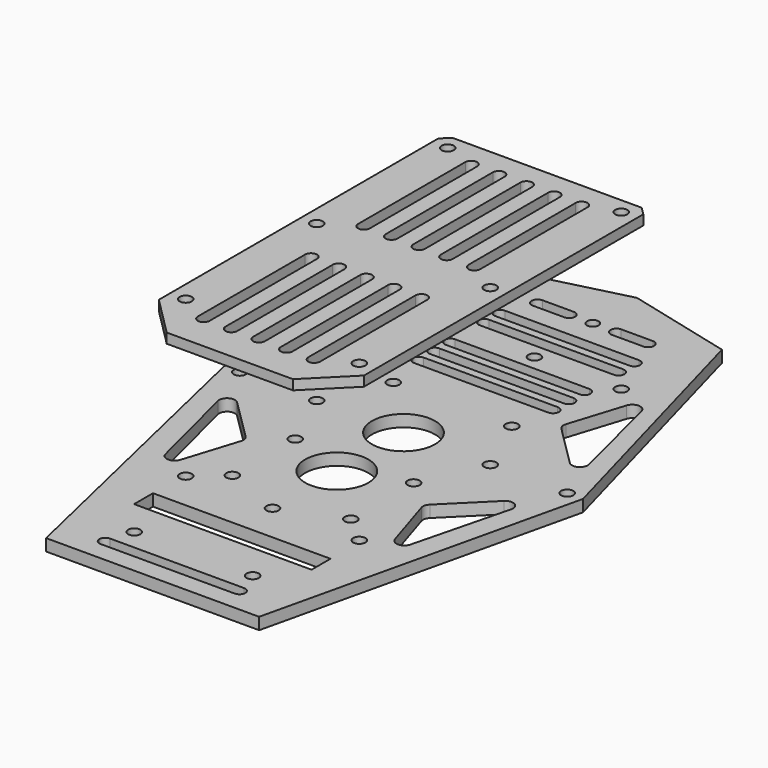
from build123d import *

# Parameters (mm, degrees)
F3_DEPTH      = 3
F0_R          = 8
F0_R_2        = 1.55
F0_R_3        = 1.458720764
F4_DEPTH      = 25
F4_DEPTH_BACK = 25
F1_R          = 1.55
F1_W          = 45
F1_H          = 6
F5_DEPTH      = 25
F6_R          = 8
F7_DEPTH      = 25
F10_DEPTH     = 2.5
F11_R         = 1.55
F12_DEPTH     = 75
F14_DEPTH     = 25
F15_SIZE      = 10
F16_SIZE      = 2


with BuildPart() as f3:
    # F2 (on Top) → F3 (new body)
    with BuildSketch(Plane.XY):
        Polygon((0, 74), (-27, 67.1576152444), (-45.5, 0), (-27, -79.5), (0, -79.5), (27, -79.5), (45.5, 0), (27, 67.1576152444), align=None)
    extrude(amount=F3_DEPTH)

    # F0 (on Top) → F4 (cut, two sides)
    with BuildSketch(Plane.XY) as f4_sk:
        Circle(F0_R)
        with Locations((-41.5, 0)):
            Circle(F0_R_2)
        with Locations((41.5, 0)):
            Circle(F0_R_2)
        with Locations((0, 41.5)):
            Circle(F0_R_2)
        with Locations((0, -41.5)):
            Circle(F0_R_2)
        with Locations((0, 60)):
            Circle(F0_R_3)
        with BuildLine():
            Line((-6, 58.5), (-6, 60))
            Line((-6, 60), (-6, 61.5))
            ThreePointArc((-6, 61.5), (-7.5, 60), (-6, 58.5))
        make_face()
        with BuildLine():
            Line((-6, 61.5), (-6, 60))
            Line((-6, 60), (-6, 58.5))
            ThreePointArc((-6, 58.5), (-4.9393398282, 58.9393398282), (-4.5, 60))
            ThreePointArc((-4.5, 60), (-4.9393398282, 61.0606601718), (-6, 61.5))
        make_face()
        with BuildLine():
            ThreePointArc((-6, 58.5), (-7.5, 60), (-6, 61.5))
            Line((-6, 61.5), (-14, 61.5))
            ThreePointArc((-14, 61.5), (-12.9393398282, 61.0606601718), (-12.5, 60))
            ThreePointArc((-12.5, 60), (-12.9393398282, 58.9393398282), (-14, 58.5))
            Line((-14, 58.5), (-6, 58.5))
        make_face()
        with BuildLine():
            ThreePointArc((-12.5, 60), (-12.9393398282, 61.0606601718), (-14, 61.5))
            Line((-14, 61.5), (-14, 58.5))
            ThreePointArc((-14, 58.5), (-12.9393398282, 58.9393398282), (-12.5, 60))
        make_face()
        with BuildLine():
            Line((-14, 58.5), (-14, 61.5))
            ThreePointArc((-14, 61.5), (-15.5, 60), (-14, 58.5))
        make_face()
        with BuildLine():
            Line((6, 58.5), (6, 60))
            Line((6, 60), (6, 61.5))
            ThreePointArc((6, 61.5), (4.5, 60), (6, 58.5))
        make_face()
        with BuildLine():
            Line((6, 61.5), (6, 60))
            Line((6, 60), (6, 58.5))
            ThreePointArc((6, 58.5), (7.0606601718, 58.9393398282), (7.5, 60))
            ThreePointArc((7.5, 60), (7.0606601718, 61.0606601718), (6, 61.5))
        make_face()
        with BuildLine():
            Line((14, 61.5), (6, 61.5))
            ThreePointArc((6, 61.5), (7.0606601718, 61.0606601718), (7.5, 60))
            ThreePointArc((7.5, 60), (7.0606601718, 58.9393398282), (6, 58.5))
            Line((6, 58.5), (14, 58.5))
            ThreePointArc((14, 58.5), (12.5, 60), (14, 61.5))
        make_face()
        with BuildLine():
            ThreePointArc((15.5, 60), (15.0606601718, 61.0606601718), (14, 61.5))
            Line((14, 61.5), (14, 58.5))
            ThreePointArc((14, 58.5), (15.0606601718, 58.9393398282), (15.5, 60))
        make_face()
        with BuildLine():
            Line((14, 58.5), (14, 61.5))
            ThreePointArc((14, 61.5), (12.5, 60), (14, 58.5))
        make_face()
    extrude(amount=F4_DEPTH, mode=Mode.SUBTRACT)
    extrude(f4_sk.sketch, amount=-F4_DEPTH_BACK, mode=Mode.SUBTRACT)

    # F1 (on Top) → F5 (cut)
    with BuildSketch(Plane.XY):
        with Locations((-15.0210140273, 15.5457137153)):
            Circle(F1_R)
        with Locations((-15.0210140273, -15.5457137153)):
            Circle(F1_R)
        with Locations((15.0210140273, -15.5457137153)):
            Circle(F1_R)
        with Locations((15.0210140273, 15.5457137153)):
            Circle(F1_R)
        with Locations((-15.0210140273, -66.5457137153)):
            Circle(F1_R)
        with Locations((-15.0210140273, -35.4542862847)):
            Circle(F1_R)
        with Locations((15.0210140273, -66.5457137153)):
            Circle(F1_R)
        with Locations((15.0210140273, -35.4542862847)):
            Circle(F1_R)
        with Locations((0, -54.2487800121)):
            Rectangle(F1_W, F1_H)
    extrude(amount=F5_DEPTH, mode=Mode.SUBTRACT)

    # F6 (on Top) → F7 (cut)
    with BuildSketch(Plane.XY):
        with BuildLine():
            Line((-37.1809894461, -12.33339396), (-31.0517809775, -36.5974820822))
            ThreePointArc((-31.0517809775, -36.5974820822), (-29.1704769724, -38.1068247007), (-27.2051301121, -36.7086717697))
            Line((-27.2051301121, -36.7086717697), (-22.8451763143, -22.8705588828))
            ThreePointArc((-22.8451763143, -22.8705588828), (-22.8108223978, -21.7910376783), (-23.3428015176, -20.8510672328))
            Line((-23.3428015176, -20.8510672328), (-33.831963784, -10.4250919976))
            ThreePointArc((-33.831963784, -10.4250919976), (-36.2320528032, -10.1058736055), (-37.1809894461, -12.33339396))
        make_face()
        with BuildLine():
            ThreePointArc((-23.3428015176, 20.8510672328), (-22.8108223978, 21.7910376783), (-22.8451763143, 22.8705588828))
            Line((-22.8451763143, 22.8705588828), (-27.2051301121, 36.7086717697))
            ThreePointArc((-27.2051301121, 36.7086717697), (-29.1704769724, 38.1068247007), (-31.0517809775, 36.5974820822))
            Line((-31.0517809775, 36.5974820822), (-37.1809894461, 12.33339396))
            ThreePointArc((-37.1809894461, 12.33339396), (-36.2320528032, 10.1058736055), (-33.831963784, 10.4250919976))
            Line((-33.831963784, 10.4250919976), (-23.3428015176, 20.8510672328))
        make_face()
        with BuildLine():
            Line((27.2051301121, 36.7086717697), (22.8451763143, 22.8705588828))
            ThreePointArc((22.8451763143, 22.8705588828), (22.8108223978, 21.7910376783), (23.3428015176, 20.8510672328))
            Line((23.3428015176, 20.8510672328), (33.831963784, 10.4250919976))
            ThreePointArc((33.831963784, 10.4250919976), (36.2320528032, 10.1058736055), (37.1809894461, 12.33339396))
            Line((37.1809894461, 12.33339396), (31.0517809775, 36.5974820822))
            ThreePointArc((31.0517809775, 36.5974820822), (29.1704769724, 38.1068247007), (27.2051301121, 36.7086717697))
        make_face()
        with BuildLine():
            ThreePointArc((23.3428015176, -20.8510672328), (22.8108223978, -21.7910376783), (22.8451763143, -22.8705588828))
            Line((22.8451763143, -22.8705588828), (27.2051301121, -36.7086717697))
            ThreePointArc((27.2051301121, -36.7086717697), (29.1704769724, -38.1068247007), (31.0517809775, -36.5974820822))
            Line((31.0517809775, -36.5974820822), (37.1809894461, -12.33339396))
            ThreePointArc((37.1809894461, -12.33339396), (36.2320528032, -10.1058736055), (33.831963784, -10.4250919976))
            Line((33.831963784, -10.4250919976), (23.3428015176, -20.8510672328))
        make_face()
        with BuildLine():
            ThreePointArc((-18.5, 26.1227358133), (-18.0606601718, 25.0620756415), (-17, 24.6227358133))
            Line((-17, 24.6227358133), (17, 24.6227358133))
            ThreePointArc((17, 24.6227358133), (18.0606601718, 25.0620756415), (18.5, 26.1227358133))
            ThreePointArc((18.5, 26.1227358133), (18.0606601718, 27.183395985), (17, 27.6227358133))
            Line((17, 27.6227358133), (-17, 27.6227358133))
            ThreePointArc((-17, 27.6227358133), (-18.0606601718, 27.183395985), (-18.5, 26.1227358133))
        make_face()
        with BuildLine():
            ThreePointArc((-18.5, 31.1227358133), (-18.0606601718, 30.0620756415), (-17, 29.6227358133))
            Line((-17, 29.6227358133), (17, 29.6227358133))
            ThreePointArc((17, 29.6227358133), (18.0606601718, 30.0620756415), (18.5, 31.1227358133))
            ThreePointArc((18.5, 31.1227358133), (18.0606601718, 32.183395985), (17, 32.6227358133))
            Line((17, 32.6227358133), (-17, 32.6227358133))
            ThreePointArc((-17, 32.6227358133), (-18.0606601718, 32.183395985), (-18.5, 31.1227358133))
        make_face()
        with BuildLine():
            ThreePointArc((-18.5, 36.1227358133), (-18.0606601718, 35.0620756415), (-17, 34.6227358133))
            Line((-17, 34.6227358133), (17, 34.6227358133))
            ThreePointArc((17, 34.6227358133), (18.0606601718, 35.0620756415), (18.5, 36.1227358133))
            ThreePointArc((18.5, 36.1227358133), (18.0606601718, 37.183395985), (17, 37.6227358133))
            Line((17, 37.6227358133), (-17, 37.6227358133))
            ThreePointArc((-17, 37.6227358133), (-18.0606601718, 37.183395985), (-18.5, 36.1227358133))
        make_face()
        with BuildLine():
            ThreePointArc((17, 45.3772641867), (18.0606601718, 45.816604015), (18.5, 46.8772641867))
            ThreePointArc((18.5, 46.8772641867), (18.0606601718, 47.9379243585), (17, 48.3772641867))
            Line((17, 48.3772641867), (-17, 48.3772641867))
            ThreePointArc((-17, 48.3772641867), (-18.0606601718, 47.9379243585), (-18.5, 46.8772641867))
            ThreePointArc((-18.5, 46.8772641867), (-18.0606601718, 45.816604015), (-17, 45.3772641867))
            Line((-17, 45.3772641867), (17, 45.3772641867))
        make_face()
        with BuildLine():
            ThreePointArc((17, 50.3772641867), (18.0606601718, 50.816604015), (18.5, 51.8772641867))
            ThreePointArc((18.5, 51.8772641867), (18.0606601718, 52.9379243585), (17, 53.3772641867))
            Line((17, 53.3772641867), (-17, 53.3772641867))
            ThreePointArc((-17, 53.3772641867), (-18.0606601718, 52.9379243585), (-18.5, 51.8772641867))
            ThreePointArc((-18.5, 51.8772641867), (-18.0606601718, 50.816604015), (-17, 50.3772641867))
            Line((-17, 50.3772641867), (17, 50.3772641867))
        make_face()
        with Locations((0, -21.122964099)):
            Circle(F6_R)
        with BuildLine():
            Line((-17.0000002384, -74.7419297695), (16.9999997616, -74.7419297695))
            ThreePointArc((16.9999997616, -74.7419297695), (18.0606599334, -74.3025899413), (18.4999997616, -73.2419297695))
            ThreePointArc((18.4999997616, -73.2419297695), (18.0606599334, -72.1812695977), (16.9999997616, -71.7419297695))
            Line((16.9999997616, -71.7419297695), (-17.0000002384, -71.7419297695))
            ThreePointArc((-17.0000002384, -71.7419297695), (-18.0606604102, -72.1812695977), (-18.5000002384, -73.2419297695))
            ThreePointArc((-18.5000002384, -73.2419297695), (-18.0606604102, -74.3025899413), (-17.0000002384, -74.7419297695))
        make_face()
    extrude(amount=F7_DEPTH, mode=Mode.SUBTRACT)


with BuildPart() as f10:
    # F9 (on offset) → F10 (new body)
    with BuildSketch(Plane.XY.offset(40)):
        Polygon((26, 45.5), (0, 45.5), (-26, 45.5), (-26, -55.0220929903), (0, -55.0220929903), (26, -55.0220929903), align=None)
    extrude(amount=F10_DEPTH)


with BuildPart() as f12_tool:
    # F11 (on Top) → F12 (new body)
    with BuildSketch(Plane.XY):
        with Locations((-22, 41.5)):
            Circle(F11_R)
        with Locations((-22, 0)):
            Circle(F11_R)
        with Locations((-22, -41.5)):
            Circle(F11_R)
        with Locations((22, 41.5)):
            Circle(F11_R)
        with Locations((22, 0)):
            Circle(F11_R)
        with Locations((22, -41.5)):
            Circle(F11_R)
    extrude(amount=F12_DEPTH)


with BuildPart() as f3_1:
    add(f3.part)

    # F12: cut by f12_tool
    add(f12_tool.part, mode=Mode.SUBTRACT)


with BuildPart() as f10_1:
    add(f10.part)

    # F12: cut by f12_tool
    add(f12_tool.part, mode=Mode.SUBTRACT)

    # F13 (on face) → F14 (cut)
    with BuildSketch(Plane.XY.offset(42.5)):
        with BuildLine():
            ThreePointArc((-1.5, 4.9605527818), (0, 3.4605527818), (1.5, 4.9605527818))
            Line((1.5, 4.9605527818), (-1.5, 4.9605527818))
        make_face()
        with BuildLine():
            ThreePointArc((-1.5, 4.9605527818), (0, 6.4605527818), (1.5, 4.9605527818))
            Line((1.5, 4.9605527818), (1.5, 38.9605527818))
            ThreePointArc((1.5, 38.9605527818), (0, 37.4605527818), (-1.5, 38.9605527818))
            Line((-1.5, 38.9605527818), (-1.5, 4.9605527818))
        make_face()
        with BuildLine():
            Line((-1.5, 4.9605527818), (1.5, 4.9605527818))
            ThreePointArc((1.5, 4.9605527818), (0, 6.4605527818), (-1.5, 4.9605527818))
        make_face()
        with BuildLine():
            ThreePointArc((-1.5, 38.9605527818), (0, 37.4605527818), (1.5, 38.9605527818))
            Line((1.5, 38.9605527818), (-1.5, 38.9605527818))
        make_face()
        with BuildLine():
            Line((-1.5, 38.9605527818), (1.5, 38.9605527818))
            ThreePointArc((1.5, 38.9605527818), (0, 40.4605527818), (-1.5, 38.9605527818))
        make_face()
        with BuildLine():
            ThreePointArc((-1.5, -45.7980232388), (0, -47.2980232388), (1.5, -45.7980232388))
            Line((1.5, -45.7980232388), (-1.5, -45.7980232388))
        make_face()
        with BuildLine():
            ThreePointArc((-1.5, -45.7980232388), (0, -44.2980232388), (1.5, -45.7980232388))
            Line((1.5, -45.7980232388), (1.5, -11.7980232388))
            ThreePointArc((1.5, -11.7980232388), (0, -13.2980232388), (-1.5, -11.7980232388))
            Line((-1.5, -11.7980232388), (-1.5, -45.7980232388))
        make_face()
        with BuildLine():
            Line((-1.5, -45.7980232388), (1.5, -45.7980232388))
            ThreePointArc((1.5, -45.7980232388), (0, -44.2980232388), (-1.5, -45.7980232388))
        make_face()
        with BuildLine():
            ThreePointArc((-1.5, -11.7980232388), (0, -13.2980232388), (1.5, -11.7980232388))
            Line((1.5, -11.7980232388), (-1.5, -11.7980232388))
        make_face()
        with BuildLine():
            Line((-1.5, -11.7980232388), (1.5, -11.7980232388))
            ThreePointArc((1.5, -11.7980232388), (0, -10.2980232388), (-1.5, -11.7980232388))
        make_face()
        with BuildLine():
            Line((5.5, -11.7980232388), (8.5, -11.7980232388))
            ThreePointArc((8.5, -11.7980232388), (7, -10.2980232388), (5.5, -11.7980232388))
        make_face()
        with BuildLine():
            Line((8.5, -45.7980232388), (8.5, -11.7980232388))
            ThreePointArc((8.5, -11.7980232388), (7, -13.2980232388), (5.5, -11.7980232388))
            Line((5.5, -11.7980232388), (5.5, -45.7980232388))
            ThreePointArc((5.5, -45.7980232388), (7, -44.2980232388), (8.5, -45.7980232388))
        make_face()
        with BuildLine():
            ThreePointArc((5.5, -11.7980232388), (7, -13.2980232388), (8.5, -11.7980232388))
            Line((8.5, -11.7980232388), (5.5, -11.7980232388))
        make_face()
        with BuildLine():
            Line((5.5, -45.7980232388), (8.5, -45.7980232388))
            ThreePointArc((8.5, -45.7980232388), (7, -44.2980232388), (5.5, -45.7980232388))
        make_face()
        with BuildLine():
            ThreePointArc((5.5, -45.7980232388), (7, -47.2980232388), (8.5, -45.7980232388))
            Line((8.5, -45.7980232388), (5.5, -45.7980232388))
        make_face()
        with BuildLine():
            Line((5.5, 38.9605527818), (5.5, 4.9605527818))
            ThreePointArc((5.5, 4.9605527818), (7, 6.4605527818), (8.5, 4.9605527818))
            Line((8.5, 4.9605527818), (8.5, 38.9605527818))
            ThreePointArc((8.5, 38.9605527818), (7, 37.4605527818), (5.5, 38.9605527818))
        make_face()
        with BuildLine():
            Line((8.5, 4.9605527818), (5.5, 4.9605527818))
            ThreePointArc((5.5, 4.9605527818), (7, 3.4605527818), (8.5, 4.9605527818))
        make_face()
        with BuildLine():
            ThreePointArc((8.5, 4.9605527818), (7, 6.4605527818), (5.5, 4.9605527818))
            Line((5.5, 4.9605527818), (8.5, 4.9605527818))
        make_face()
        with BuildLine():
            Line((8.5, 38.9605527818), (5.5, 38.9605527818))
            ThreePointArc((5.5, 38.9605527818), (7, 37.4605527818), (8.5, 38.9605527818))
        make_face()
        with BuildLine():
            ThreePointArc((8.5, 38.9605527818), (7, 40.4605527818), (5.5, 38.9605527818))
            Line((5.5, 38.9605527818), (8.5, 38.9605527818))
        make_face()
        with BuildLine():
            Line((12.5, -11.7980232388), (15.5, -11.7980232388))
            ThreePointArc((15.5, -11.7980232388), (14, -10.2980232388), (12.5, -11.7980232388))
        make_face()
        with BuildLine():
            Line((15.5, -45.7980232388), (15.5, -11.7980232388))
            ThreePointArc((15.5, -11.7980232388), (14, -13.2980232388), (12.5, -11.7980232388))
            Line((12.5, -11.7980232388), (12.5, -45.7980232388))
            ThreePointArc((12.5, -45.7980232388), (14, -44.2980232388), (15.5, -45.7980232388))
        make_face()
        with BuildLine():
            ThreePointArc((12.5, -11.7980232388), (14, -13.2980232388), (15.5, -11.7980232388))
            Line((15.5, -11.7980232388), (12.5, -11.7980232388))
        make_face()
        with BuildLine():
            Line((12.5, -45.7980232388), (15.5, -45.7980232388))
            ThreePointArc((15.5, -45.7980232388), (14, -44.2980232388), (12.5, -45.7980232388))
        make_face()
        with BuildLine():
            ThreePointArc((12.5, -45.7980232388), (14, -47.2980232388), (15.5, -45.7980232388))
            Line((15.5, -45.7980232388), (12.5, -45.7980232388))
        make_face()
        with BuildLine():
            Line((12.5, 38.9605527818), (12.5, 4.9605527818))
            ThreePointArc((12.5, 4.9605527818), (14, 6.4605527818), (15.5, 4.9605527818))
            Line((15.5, 4.9605527818), (15.5, 38.9605527818))
            ThreePointArc((15.5, 38.9605527818), (14, 37.4605527818), (12.5, 38.9605527818))
        make_face()
        with BuildLine():
            Line((15.5, 4.9605527818), (12.5, 4.9605527818))
            ThreePointArc((12.5, 4.9605527818), (14, 3.4605527818), (15.5, 4.9605527818))
        make_face()
        with BuildLine():
            ThreePointArc((15.5, 4.9605527818), (14, 6.4605527818), (12.5, 4.9605527818))
            Line((12.5, 4.9605527818), (15.5, 4.9605527818))
        make_face()
        with BuildLine():
            Line((15.5, 38.9605527818), (12.5, 38.9605527818))
            ThreePointArc((12.5, 38.9605527818), (14, 37.4605527818), (15.5, 38.9605527818))
        make_face()
        with BuildLine():
            ThreePointArc((15.5, 38.9605527818), (14, 40.4605527818), (12.5, 38.9605527818))
            Line((12.5, 38.9605527818), (15.5, 38.9605527818))
        make_face()
        with BuildLine():
            Line((-8.5, -45.7980232388), (-5.5, -45.7980232388))
            ThreePointArc((-5.5, -45.7980232388), (-7, -44.2980232388), (-8.5, -45.7980232388))
        make_face()
        with BuildLine():
            ThreePointArc((-8.5, -45.7980232388), (-7, -44.2980232388), (-5.5, -45.7980232388))
            Line((-5.5, -45.7980232388), (-5.5, -11.7980232388))
            ThreePointArc((-5.5, -11.7980232388), (-7, -13.2980232388), (-8.5, -11.7980232388))
            Line((-8.5, -11.7980232388), (-8.5, -45.7980232388))
        make_face()
        with BuildLine():
            ThreePointArc((-8.5, -45.7980232388), (-7, -47.2980232388), (-5.5, -45.7980232388))
            Line((-5.5, -45.7980232388), (-8.5, -45.7980232388))
        make_face()
        with BuildLine():
            Line((-8.5, -11.7980232388), (-5.5, -11.7980232388))
            ThreePointArc((-5.5, -11.7980232388), (-7, -10.2980232388), (-8.5, -11.7980232388))
        make_face()
        with BuildLine():
            ThreePointArc((-8.5, -11.7980232388), (-7, -13.2980232388), (-5.5, -11.7980232388))
            Line((-5.5, -11.7980232388), (-8.5, -11.7980232388))
        make_face()
        with BuildLine():
            ThreePointArc((-8.5, 4.9605527818), (-7, 6.4605527818), (-5.5, 4.9605527818))
            Line((-5.5, 4.9605527818), (-5.5, 38.9605527818))
            ThreePointArc((-5.5, 38.9605527818), (-7, 37.4605527818), (-8.5, 38.9605527818))
            Line((-8.5, 38.9605527818), (-8.5, 4.9605527818))
        make_face()
        with BuildLine():
            Line((-8.5, 4.9605527818), (-5.5, 4.9605527818))
            ThreePointArc((-5.5, 4.9605527818), (-7, 6.4605527818), (-8.5, 4.9605527818))
        make_face()
        with BuildLine():
            ThreePointArc((-8.5, 4.9605527818), (-7, 3.4605527818), (-5.5, 4.9605527818))
            Line((-5.5, 4.9605527818), (-8.5, 4.9605527818))
        make_face()
        with BuildLine():
            Line((-8.5, 38.9605527818), (-5.5, 38.9605527818))
            ThreePointArc((-5.5, 38.9605527818), (-7, 40.4605527818), (-8.5, 38.9605527818))
        make_face()
        with BuildLine():
            ThreePointArc((-8.5, 38.9605527818), (-7, 37.4605527818), (-5.5, 38.9605527818))
            Line((-5.5, 38.9605527818), (-8.5, 38.9605527818))
        make_face()
        with BuildLine():
            Line((-15.5, -45.7980232388), (-12.5, -45.7980232388))
            ThreePointArc((-12.5, -45.7980232388), (-14, -44.2980232388), (-15.5, -45.7980232388))
        make_face()
        with BuildLine():
            ThreePointArc((-15.5, -45.7980232388), (-14, -44.2980232388), (-12.5, -45.7980232388))
            Line((-12.5, -45.7980232388), (-12.5, -11.7980232388))
            ThreePointArc((-12.5, -11.7980232388), (-14, -13.2980232388), (-15.5, -11.7980232388))
            Line((-15.5, -11.7980232388), (-15.5, -45.7980232388))
        make_face()
        with BuildLine():
            ThreePointArc((-15.5, -45.7980232388), (-14, -47.2980232388), (-12.5, -45.7980232388))
            Line((-12.5, -45.7980232388), (-15.5, -45.7980232388))
        make_face()
        with BuildLine():
            Line((-15.5, -11.7980232388), (-12.5, -11.7980232388))
            ThreePointArc((-12.5, -11.7980232388), (-14, -10.2980232388), (-15.5, -11.7980232388))
        make_face()
        with BuildLine():
            ThreePointArc((-15.5, -11.7980232388), (-14, -13.2980232388), (-12.5, -11.7980232388))
            Line((-12.5, -11.7980232388), (-15.5, -11.7980232388))
        make_face()
        with BuildLine():
            ThreePointArc((-15.5, 4.9605527818), (-14, 6.4605527818), (-12.5, 4.9605527818))
            Line((-12.5, 4.9605527818), (-12.5, 38.9605527818))
            ThreePointArc((-12.5, 38.9605527818), (-14, 37.4605527818), (-15.5, 38.9605527818))
            Line((-15.5, 38.9605527818), (-15.5, 4.9605527818))
        make_face()
        with BuildLine():
            Line((-15.5, 4.9605527818), (-12.5, 4.9605527818))
            ThreePointArc((-12.5, 4.9605527818), (-14, 6.4605527818), (-15.5, 4.9605527818))
        make_face()
        with BuildLine():
            ThreePointArc((-15.5, 4.9605527818), (-14, 3.4605527818), (-12.5, 4.9605527818))
            Line((-12.5, 4.9605527818), (-15.5, 4.9605527818))
        make_face()
        with BuildLine():
            Line((-15.5, 38.9605527818), (-12.5, 38.9605527818))
            ThreePointArc((-12.5, 38.9605527818), (-14, 40.4605527818), (-15.5, 38.9605527818))
        make_face()
        with BuildLine():
            ThreePointArc((-15.5, 38.9605527818), (-14, 37.4605527818), (-12.5, 38.9605527818))
            Line((-12.5, 38.9605527818), (-15.5, 38.9605527818))
        make_face()
    extrude(amount=-F14_DEPTH, mode=Mode.SUBTRACT)

    # F15
    f15_edges = [f10_1.edges().sort_by_distance(p)[0] for p in [
        (-26, -55.022093, 41.25),
        (26, -55.022093, 41.25),
    ]]
    chamfer(f15_edges, length=F15_SIZE)

    # F16
    f16_edges = [f10_1.edges().sort_by_distance(p)[0] for p in [
        (-26, 45.5, 41.25),
        (26, 45.5, 41.25),
    ]]
    chamfer(f16_edges, length=F16_SIZE)


solid = Compound([f3_1.part, f10_1.part])
